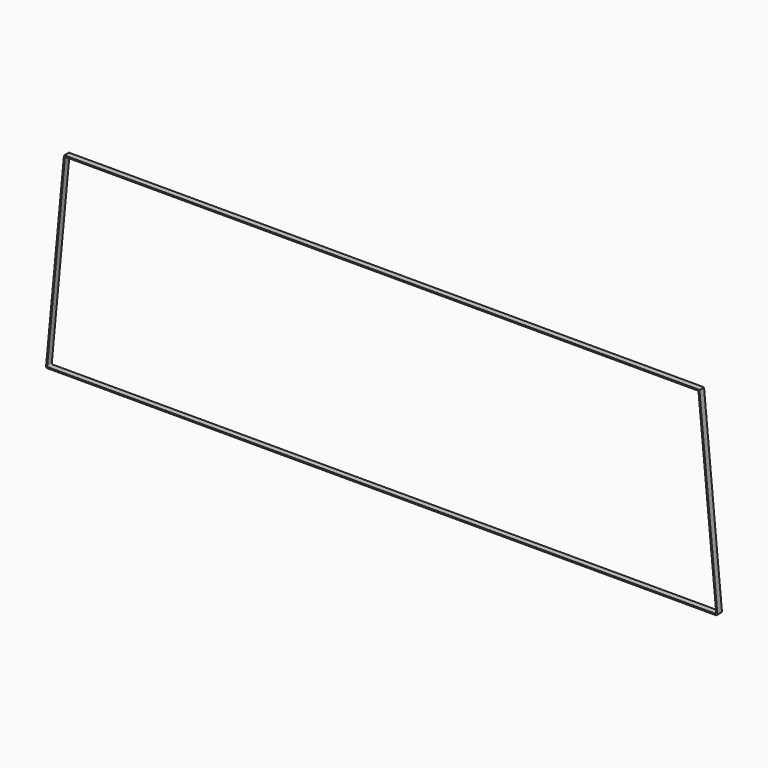
from build123d import *

# Parameters (mm, degrees)
F1_DEPTH = 10


with BuildPart() as f1:
    # F0 (on Front) → F1 (new body)
    with BuildSketch(Plane.XZ):
        with BuildLine():
            Line((0, 187.580806), (-550, 187.580806))
            ThreePointArc((-550, 187.580806), (-550.791112, 187.452333), (-551.500916, 187.080119))
            Line((-551.500916, 187.080119), (-582.495395, -144.660237))
            ThreePointArc((-582.495395, -144.660237), (-581.860029, -146.593552), (-580, -147.419194))
            Line((-580, -147.419194), (-6.159987, -147.419194))
            Line((-6.159987, -147.419194), (6.159987, -147.419194))
            Line((6.159987, -147.419194), (580, -147.419194))
            ThreePointArc((580, -147.419194), (581.860029, -146.593552), (582.495395, -144.660237))
            Line((582.495395, -144.660237), (551.500916, 187.080119))
            ThreePointArc((551.500916, 187.080119), (550.791112, 187.452333), (550, 187.580806))
            Line((550, 187.580806), (0, 187.580806))
        make_face()
        with BuildLine():
            ThreePointArc((-549.85201, 184.760109), (-549.012853, 185.366442), (-548, 185.580806))
            Line((-548, 185.580806), (0, 185.580806))
            Line((0, 185.580806), (548, 185.580806))
            ThreePointArc((548, 185.580806), (549.012853, 185.366442), (549.85201, 184.760109))
            Line((549.85201, 184.760109), (580.495395, -142.767521))
            ThreePointArc((580.495395, -142.767521), (579.820602, -144.632497), (578, -145.419194))
            Line((578, -145.419194), (0, -145.419194))
            Line((0, -145.419194), (-578, -145.419194))
            ThreePointArc((-578, -145.419194), (-579.820602, -144.632497), (-580.495395, -142.767521))
            Line((-580.495395, -142.767521), (-549.85201, 184.760109))
        make_face(mode=Mode.SUBTRACT)
    extrude(amount=F1_DEPTH)


solid = f1.part
